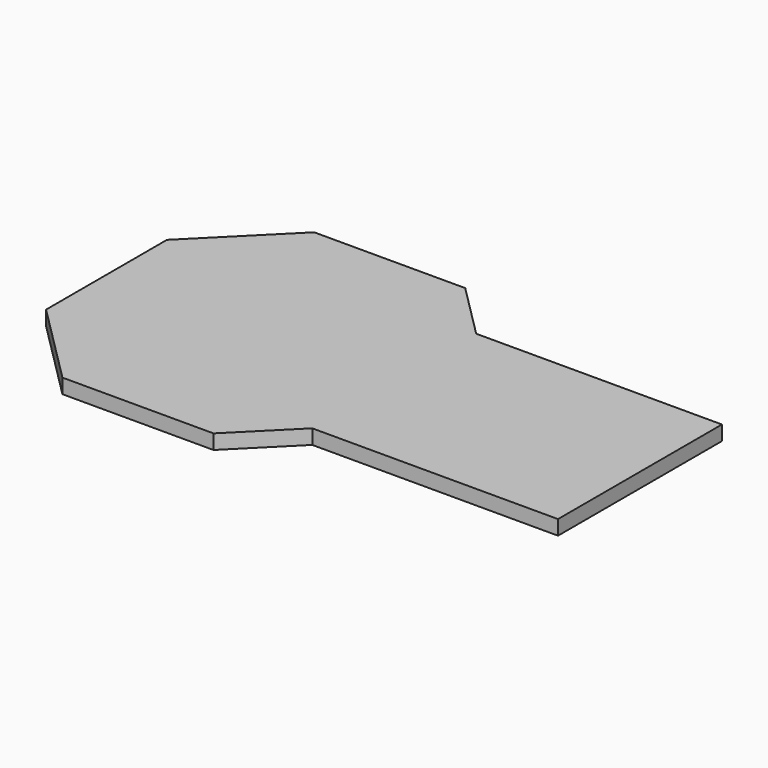
from build123d import *

# Parameters (mm, degrees)
F1_DEPTH = 3.175


with BuildPart() as f1:
    # F0 (on Top) → F1 (new body)
    with BuildSketch(Plane.XY):
        with BuildLine():
            ThreePointArc((12.2418757049, 56.0206242951), (5.5314042217, 45.9776940032), (3.175, 34.13125))
            ThreePointArc((3.175, 34.13125), (5.5314042217, 22.2848059968), (12.2418757049, 12.2418757049))
            Line((12.2418757049, 12.2418757049), (34.13125, 34.13125))
            Line((34.13125, 34.13125), (12.2418757049, 56.0206242951))
        make_face()
        with BuildLine():
            ThreePointArc((12.2418757049, 12.2418757049), (22.2848059968, 5.5314042217), (34.13125, 3.175))
            Line((34.13125, 3.175), (34.13125, 34.13125))
            Line((34.13125, 34.13125), (12.2418757049, 12.2418757049))
        make_face()
        with BuildLine():
            Line((8.8742796595, 8.8742796595), (14.573559319, 3.175))
            Line((14.573559319, 3.175), (34.13125, 3.175))
            ThreePointArc((34.13125, 3.175), (22.2848059968, 5.5314042217), (12.2418757049, 12.2418757049))
            Line((12.2418757049, 12.2418757049), (8.8742796595, 8.8742796595))
        make_face()
        Polygon((14.573559319, 3.175), (17.748559319, 0), (50.513940681, 0), (53.688940681, 3.175), (34.13125, 3.175), align=None)
        with BuildLine():
            Line((3.175, 34.13125), (3.175, 14.573559319))
            Line((3.175, 14.573559319), (8.8742796595, 8.8742796595))
            Line((8.8742796595, 8.8742796595), (12.2418757049, 12.2418757049))
            ThreePointArc((12.2418757049, 12.2418757049), (5.5314042217, 22.2848059968), (3.175, 34.13125))
        make_face()
        Polygon((0, 50.513940681), (0, 17.748559319), (3.175, 14.573559319), (3.175, 34.13125), (3.175, 53.688940681), align=None)
        with BuildLine():
            Line((8.8742796595, 59.3882203405), (3.175, 53.688940681))
            Line((3.175, 53.688940681), (3.175, 34.13125))
            ThreePointArc((3.175, 34.13125), (5.5314042217, 45.9776940032), (12.2418757049, 56.0206242951))
            Line((12.2418757049, 56.0206242951), (8.8742796595, 59.3882203405))
        make_face()
        with BuildLine():
            Line((14.573559319, 65.0875), (8.8742796595, 59.3882203405))
            Line((8.8742796595, 59.3882203405), (12.2418757049, 56.0206242951))
            ThreePointArc((12.2418757049, 56.0206242951), (22.2848059968, 62.7310957783), (34.13125, 65.0875))
            Line((34.13125, 65.0875), (14.573559319, 65.0875))
        make_face()
        Polygon((50.513940681, 68.2625), (17.748559319, 68.2625), (14.573559319, 65.0875), (34.13125, 65.0875), (53.688940681, 65.0875), align=None)
        with BuildLine():
            Line((12.2418757049, 56.0206242951), (34.13125, 34.13125))
            Line((34.13125, 34.13125), (34.13125, 65.0875))
            ThreePointArc((34.13125, 65.0875), (22.2848059968, 62.7310957783), (12.2418757049, 56.0206242951))
        make_face()
        with BuildLine():
            Line((34.13125, 65.0875), (34.13125, 34.13125))
            Line((34.13125, 34.13125), (56.0206242951, 56.0206242951))
            ThreePointArc((56.0206242951, 56.0206242951), (45.9776940032, 62.7310957783), (34.13125, 65.0875))
        make_face()
        with BuildLine():
            ThreePointArc((56.0206242951, 56.0206242951), (62.7310957783, 45.9776940032), (65.0875, 34.13125))
            Line((65.0875, 34.13125), (65.0875, 53.688940681))
            Line((65.0875, 53.688940681), (62.420190681, 56.35625))
            Line((62.420190681, 56.35625), (59.3882203405, 59.3882203405))
            Line((59.3882203405, 59.3882203405), (56.0206242951, 56.0206242951))
        make_face()
        with BuildLine():
            ThreePointArc((34.13125, 65.0875), (45.9776940032, 62.7310957783), (56.0206242951, 56.0206242951))
            Line((56.0206242951, 56.0206242951), (59.3882203405, 59.3882203405))
            Line((59.3882203405, 59.3882203405), (53.688940681, 65.0875))
            Line((53.688940681, 65.0875), (34.13125, 65.0875))
        make_face()
        with BuildLine():
            Line((34.13125, 34.13125), (56.0206242951, 12.2418757049))
            ThreePointArc((56.0206242951, 12.2418757049), (62.7310957783, 22.2848059968), (65.0875, 34.13125))
            ThreePointArc((65.0875, 34.13125), (62.7310957783, 45.9776940032), (56.0206242951, 56.0206242951))
            Line((56.0206242951, 56.0206242951), (34.13125, 34.13125))
        make_face()
        with BuildLine():
            Line((34.13125, 34.13125), (34.13125, 3.175))
            ThreePointArc((34.13125, 3.175), (45.9776940032, 5.5314042217), (56.0206242951, 12.2418757049))
            Line((56.0206242951, 12.2418757049), (34.13125, 34.13125))
        make_face()
        with BuildLine():
            Line((34.13125, 3.175), (53.688940681, 3.175))
            Line((53.688940681, 3.175), (59.3882203405, 8.8742796595))
            Line((59.3882203405, 8.8742796595), (56.0206242951, 12.2418757049))
            ThreePointArc((56.0206242951, 12.2418757049), (45.9776940032, 5.5314042217), (34.13125, 3.175))
        make_face()
        with BuildLine():
            Line((56.0206242951, 12.2418757049), (59.3882203405, 8.8742796595))
            Line((59.3882203405, 8.8742796595), (62.420190681, 11.90625))
            Line((62.420190681, 11.90625), (65.0875, 14.573559319))
            Line((65.0875, 14.573559319), (65.0875, 34.13125))
            ThreePointArc((65.0875, 34.13125), (62.7310957783, 22.2848059968), (56.0206242951, 12.2418757049))
        make_face()
        Polygon((65.0875, 11.90625), (115.72875, 11.90625), (115.72875, 56.35625), (65.0875, 56.35625), (65.0875, 53.688940681), (65.0875, 34.13125), (65.0875, 14.573559319), align=None)
        Polygon((65.0875, 53.688940681), (65.0875, 56.35625), (62.420190681, 56.35625), align=None)
        Polygon((62.420190681, 11.90625), (65.0875, 11.90625), (65.0875, 14.573559319), align=None)
    extrude(amount=F1_DEPTH)


solid = f1.part
